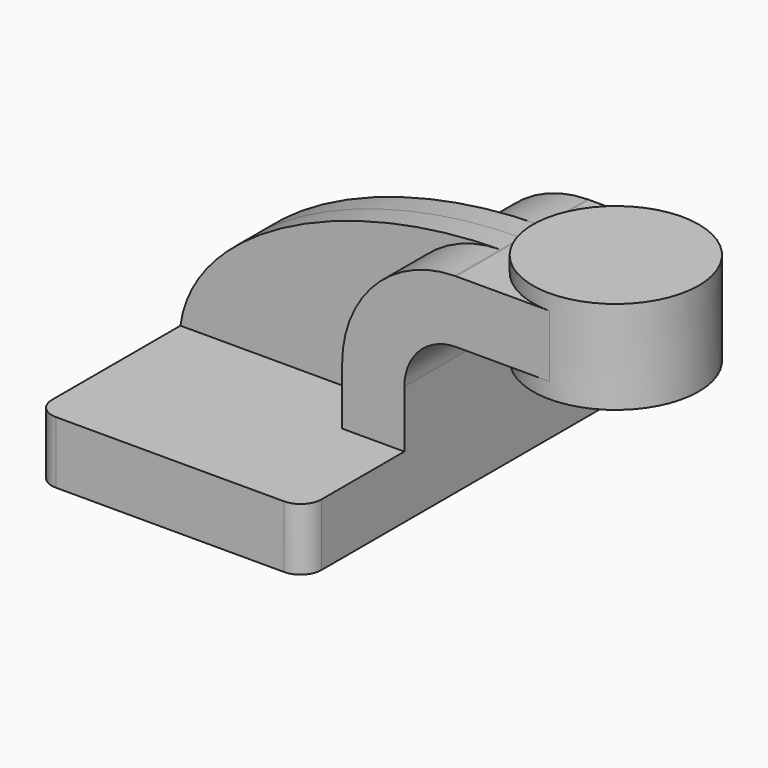
from build123d import *

# Parameters (mm, degrees)
F1_DEPTH = 63.5
F2_DEPTH = 25.4
F3_DEPTH = 7.9375
F5_R     = 6.35


with BuildPart() as f1:
    # F0 (on Front) → F1 (new body, symmetric)
    with BuildSketch(Plane.XZ):
        Polygon((22.225, 9.525), (-41.275, 9.525), (-41.275, -9.525), (41.275, -9.525), (41.275, 9.525), align=None)
    extrude(amount=F1_DEPTH, both=True)

    # F0 (on Front) → F2 (join, symmetric)
    with BuildSketch(Plane.XZ):
        with BuildLine():
            Line((22.225, 27.0002), (22.225, 9.525))
            Line((22.225, 9.525), (41.275, 9.525))
            Line((41.275, 9.525), (41.275, 27.0002))
            ThreePointArc((41.275, 27.0002), (45.9246798487, 38.2255201513), (57.15, 42.8752))
            Line((57.15, 42.8752), (60.325, 42.8752))
            Line((60.325, 42.8752), (60.325, 61.9252))
            Line((60.325, 61.9252), (57.15, 61.9252))
            add(Edge.make_bspline(
                [(56.7554491642, 61.9229712909), (56.8869413618, 61.9238786407), (57.0184585552, 61.9246216516), (57.15, 61.9252)],
                knots=[111.2049462729, 111.2049462729, 111.2049462729, 111.2049462729, 111.5045361635, 111.5045361635, 111.5045361635, 111.5045361635], degree=3))
            ThreePointArc((56.7554491642, 61.9229712909), (32.3151926428, 51.5560133347), (22.225, 27.0002))
        make_face()
        Polygon((85.7297200717, 61.9252), (60.325, 61.9252), (60.325, 42.8752), (85.7486508407, 42.8752), align=None)
    extrude(amount=F2_DEPTH, both=True)

    # F0 (on Front) → F3 (join, symmetric)
    with BuildSketch(Plane.XZ):
        with BuildLine():
            add(Edge.make_bspline(
                [(-41.275, 9.525), (-37.4179048528, 38.6063461027), (7.9467836295, 61.5861715867), (56.7554491642, 61.9229712909)],
                knots=[0, 0, 0, 0, 111.2049462729, 111.2049462729, 111.2049462729, 111.2049462729], degree=3))
            Line((-41.275, 9.525), (22.225, 9.525))
            Line((22.225, 9.525), (22.225, 27.0002))
            ThreePointArc((22.225, 27.0002), (32.3151926428, 51.5560133347), (56.7554491642, 61.9229712909))
        make_face()
    extrude(amount=F3_DEPTH, both=True)

    # F0 (on Front) → F4 (revolve)
    with BuildSketch(Plane.XZ):
        Polygon((85.725, 66.675), (85.7297200717, 61.9252), (85.7486508407, 42.8752), (85.7533961535, 38.1), (111.125, 38.1), (111.125, 66.675), align=None)
    revolve(axis=Axis((85.7391980767, 0, 52.3875), (0.0009937407, 0, -0.9999995062)))

    # F5
    f5_edges = [f1.edges().sort_by_distance(p)[0] for p in [
        (41.275, 63.5, 0),
        (41.275, -63.5, 0),
        (-41.275, 63.5, 0),
        (-41.275, -63.5, 0),
    ]]
    fillet(f5_edges, radius=F5_R)


solid = f1.part
